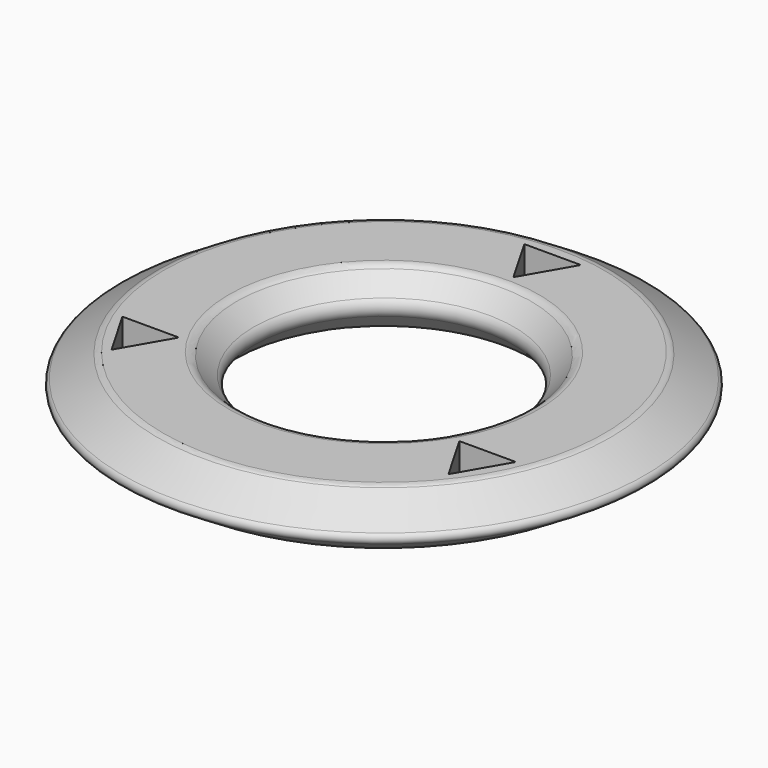
from build123d import *

# Parameters (mm, degrees)
F4_DEPTH = 25


with BuildPart() as f2:
    # F0 (on Front) → F2 (revolve)
    with BuildSketch(Plane.XZ):
        with BuildLine():
            Line((-13.726478, 5), (-19.509004, 5))
            ThreePointArc((-19.509004, 5), (-19.784693, 4.961247), (-20.039014, 4.847991))
            Line((-20.039014, 4.847991), (-23.117382, 2.923956))
            ThreePointArc((-23.117382, 2.923956), (-23.352377, 2.499956), (-23.117375, 2.07596))
            Line((-23.117375, 2.07596), (-20.039018, 0.152))
            ThreePointArc((-20.039018, 0.152), (-19.784703, 0.038751), (-19.509022, 0))
            Line((-19.509022, 0), (-13.726467, 0))
            ThreePointArc((-13.726467, 0), (-13.345413, 0.075447), (-13.021858, 0.290404))
            Line((-13.021858, 0.290404), (-11.511276, 1.79037))
            ThreePointArc((-11.511276, 1.79037), (-11.215885, 2.499957), (-11.511263, 3.209549))
            Line((-11.511263, 3.209549), (-13.021856, 4.709582))
            ThreePointArc((-13.021856, 4.709582), (-13.345416, 4.924549), (-13.726478, 5))
        make_face()
    revolve(axis=Axis((0, 0, 36.743954), (0, 0, 1)))

    # F3 (on Top) → F4 (cut)
    with BuildSketch(Plane.XY):
        Polygon((2.5, 18.654833), (-2.5, 18.654833), (0, 14.324706), align=None)
        Polygon((-12.40556, -7.162353), (-17.40556, -7.162353), (-14.90556, -11.49248), align=None)
        Polygon((12.40556, -7.162353), (14.90556, -11.49248), (17.40556, -7.162353), align=None)
    extrude(amount=F4_DEPTH, mode=Mode.SUBTRACT)


solid = f2.part
